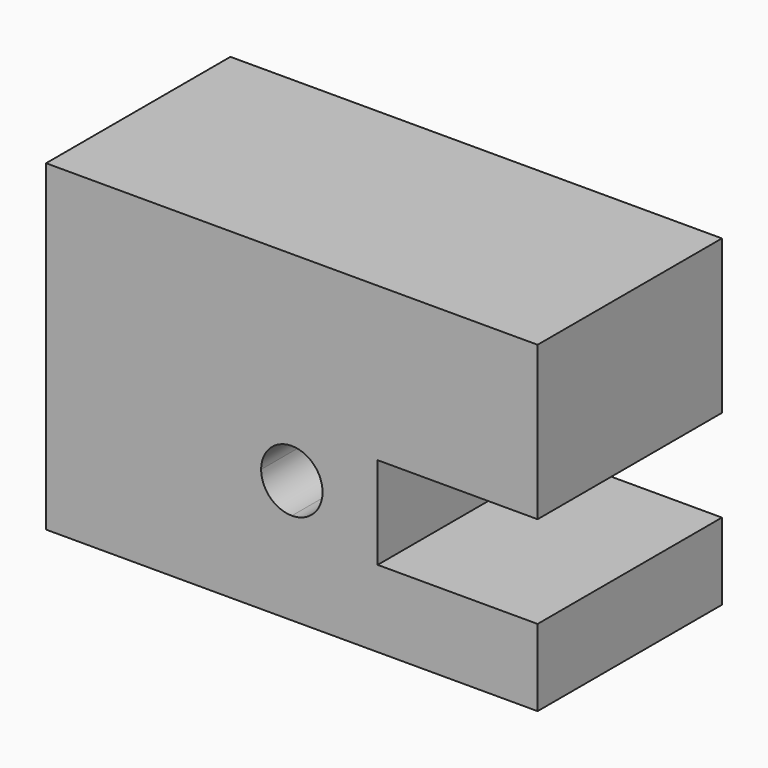
from build123d import *

# Parameters (mm, degrees)
F0_W     = 63
F0_H     = 40
F1_DEPTH = 75
F2_DEPTH = 25


with BuildPart() as f1:
    # F0 (on Front) → F1 (new body)
    with BuildSketch(Plane.XZ):
        with Locations((-48.5, 5)):
            Rectangle(F0_W, F0_H)
        Polygon((80, 25), (17, 25), (17, -15), (27.937743758, -15), (27.937743758, 0), (80, 0), align=None)
        with BuildLine():
            Line((17, 25), (0, 25))
            Line((0, 25), (0, -5))
            ThreePointArc((0, -5), (7.0710678119, -7.9289321881), (10, -15))
            Line((10, -15), (17, -15))
            Line((17, -15), (17, 25))
        make_face()
        with BuildLine():
            Line((0, 25), (-17, 25))
            Line((-17, 25), (-17, -15))
            Line((-17, -15), (-10, -15))
            ThreePointArc((-10, -15), (-7.0710678119, -7.9289321881), (0, -5))
            Line((0, -5), (0, 25))
        make_face()
        with Locations((-48.5, -35)):
            Rectangle(F0_W, F0_H)
        Polygon((27.937743758, -15), (17, -15), (17, -55), (80, -55), (80, -30), (27.937743758, -30), align=None)
        with BuildLine():
            Line((-10, -15), (-17, -15))
            Line((-17, -15), (-17, -55))
            Line((-17, -55), (0, -55))
            Line((0, -55), (0, -25))
            ThreePointArc((0, -25), (-7.0710678119, -22.0710678119), (-10, -15))
        make_face()
        with BuildLine():
            Line((17, -55), (17, -15))
            Line((17, -15), (10, -15))
            ThreePointArc((10, -15), (7.0710678119, -22.0710678119), (0, -25))
            Line((0, -25), (0, -55))
            Line((0, -55), (17, -55))
        make_face()
    extrude(amount=F1_DEPTH)

    # F2 (add): a face of the model
    f2_faces = [f1.faces().sort_by_distance(p)[0] for p in [
        (0, -37.5, 25),
    ]]
    extrude(f2_faces, amount=F2_DEPTH)


solid = f1.part
